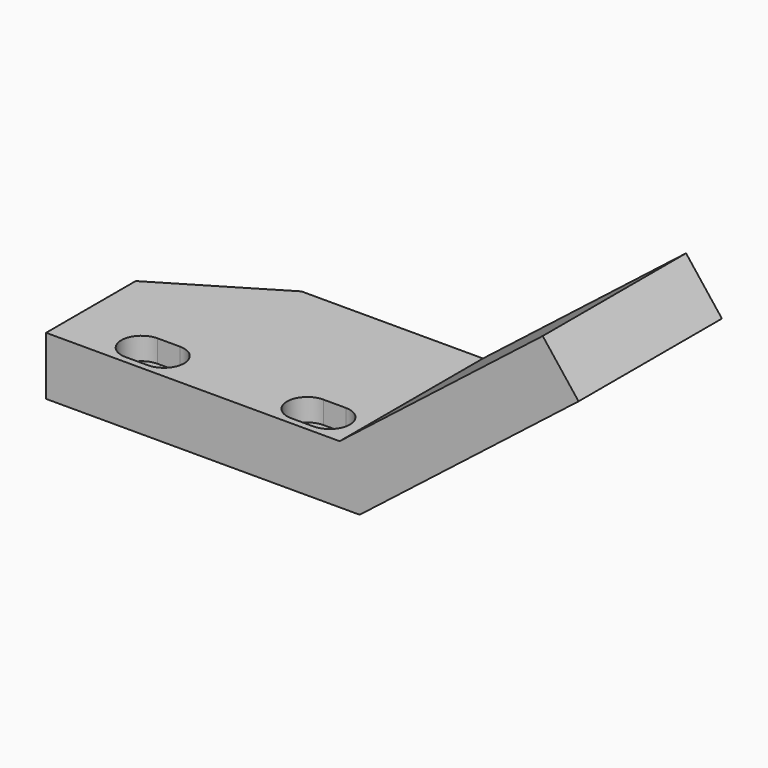
from build123d import *

# Parameters (mm, degrees)
F1_DEPTH = 40
F3_DEPTH = 5
F5_DEPTH = 25
F7_DEPTH = 25
F8_R     = 2.5
F9_DEPTH = 15


with BuildPart() as f1:
    # F0 (on Front) → F1 (new body)
    with BuildSketch(Plane.XZ):
        Polygon((-70, 13), (-70, 0), (0, 0), (48.856667, 38.171011), (40.853068, 48.415151), (-4.476259, 13), align=None)
    extrude(amount=F1_DEPTH)

    # F2 (on face) → F3 (cut)
    with BuildSketch(Plane.XY.offset(13)):
        with BuildLine():
            Line((-16.5, -38.5), (-11.5, -38.5))
            ThreePointArc((-11.5, -38.5), (-7, -34), (-11.5, -29.5))
            Line((-11.5, -29.5), (-16.5, -29.5))
            ThreePointArc((-16.5, -29.5), (-21, -34), (-16.5, -38.5))
        make_face()
        with BuildLine():
            Line((-48.5, -29.5), (-53.5, -29.5))
            ThreePointArc((-53.5, -29.5), (-58, -34), (-53.5, -38.5))
            Line((-53.5, -38.5), (-48.5, -38.5))
            ThreePointArc((-48.5, -38.5), (-44, -34), (-48.5, -29.5))
        make_face()
    extrude(amount=-F3_DEPTH, mode=Mode.SUBTRACT)

    # F4 (on face) → F5 (cut)
    with BuildSketch(Plane.XY.offset(13)):
        with BuildLine():
            Line((-53.5, -36.5), (-48.5, -36.5))
            ThreePointArc((-48.5, -36.5), (-46, -34), (-48.5, -31.5))
            Line((-48.5, -31.5), (-53.5, -31.5))
            ThreePointArc((-53.5, -31.5), (-56, -34), (-53.5, -36.5))
        make_face()
        with BuildLine():
            Line((-11.5, -31.5), (-16.5, -31.5))
            ThreePointArc((-16.5, -31.5), (-19, -34), (-16.5, -36.5))
            Line((-16.5, -36.5), (-11.5, -36.5))
            ThreePointArc((-11.5, -36.5), (-9, -34), (-11.5, -31.5))
        make_face()
    extrude(amount=-F5_DEPTH, mode=Mode.SUBTRACT)

    # F6 (on face) → F7 (cut)
    with BuildSketch(Plane.XY.offset(13)):
        Polygon((-70, 0), (-70, -15), (-45, 0), align=None)
    extrude(amount=-F7_DEPTH, mode=Mode.SUBTRACT)

    # F8 (on face) → F9 (cut)
    with BuildSketch(Plane(origin=(0, 0, 0), x_dir=(-1, 0, 0), z_dir=(0, 1, 0))):
        with Locations((-36.97476, 37.136467)):
            Circle(F8_R)
        with Locations((-13.334437, 18.666622)):
            Circle(F8_R)
    extrude(amount=-F9_DEPTH, mode=Mode.SUBTRACT)


solid = f1.part
